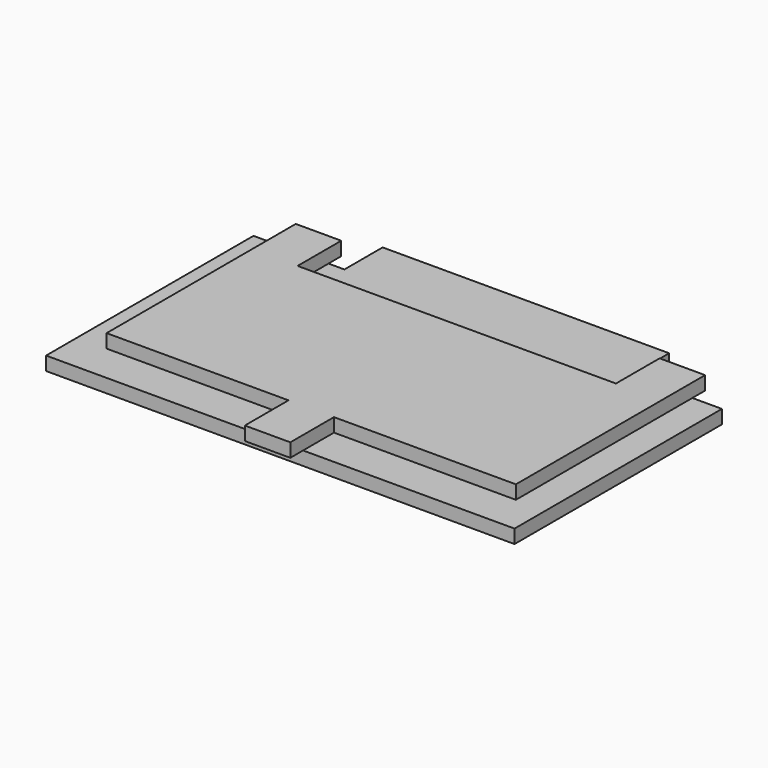
from build123d import *

# Parameters (mm, degrees)
F0_W     = 63
F0_H     = 10.5
F1_DEPTH = 3
F3_DEPTH = 3


with BuildPart() as f1:
    # F0 (on Top) → F1 (new body)
    with BuildSketch(Plane.XY):
        Polygon((51.5, -28.5), (51.5, 28.5), (31.5, 28.5), (31.5, 18), (-31.5, 18), (-31.5, 28.5), (-51.5, 28.5), (-51.5, -28.5), align=None)
        with Locations((0, 23.25)):
            Rectangle(F0_W, F0_H)
        with Locations((0, 33.75)):
            Rectangle(F0_W, F0_H)
    extrude(amount=F1_DEPTH)


with BuildPart() as f3:
    # F2 (on face) → F3 (new body)
    with BuildSketch(Plane.XY.offset(3)):
        Polygon((35, 32), (35, 20), (-35, 20), (-35, 32), (-45, 32), (-45, 20), (-45, -20), (-5, -20), (-5, -32), (0, -32), (5, -32), (5, -20), (45, -20), (45, 20), (45, 32), align=None)
    extrude(amount=F3_DEPTH)


solid = Compound([f1.part, f3.part])
